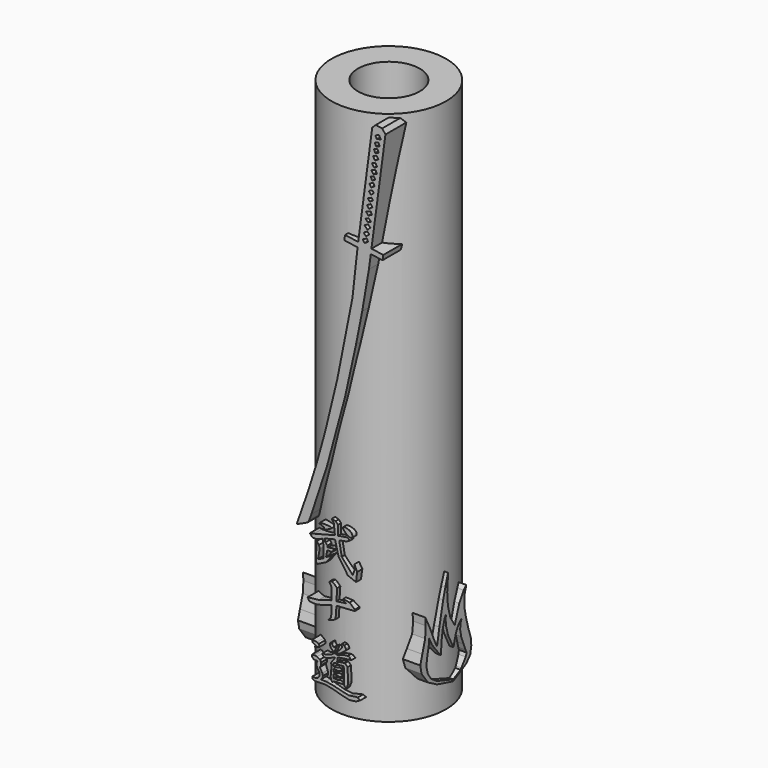
from build123d import *

# Parameters (mm, degrees)
F0_R      = 4.7625
F1_DEPTH  = 44.45
F2_R      = 2.5655508321
F3_DEPTH  = 1270
F5_DEPTH  = 5.08
F7_DEPTH  = 5.08
F9_DEPTH  = 5.08
F10_DEPTH = 10.16


with BuildPart() as f1:
    # F0 (on Top) → F1 (new body)
    with BuildSketch(Plane.XY):
        Circle(F0_R)
    extrude(amount=F1_DEPTH)

    # F2 (on face) → F3 (cut)
    with BuildSketch(Plane.XY.offset(44.45)):
        Circle(F2_R)
    extrude(amount=-F3_DEPTH, mode=Mode.SUBTRACT)

    # F4 (on Front) → F5 (join)
    with BuildSketch(Plane.XZ):
        with BuildLine():
            add(Edge.make_bspline(
                [(-1.7175952617, 13.5644670009), (-1.6912277764, 13.6438488183), (0.1729441015, 13.6943307224), (-1.8779925812, 13.0316259927), (-1.017103005, 13.3756600593), (-1.7355572103, 13.5103908495), (-1.7175952617, 13.5644670009)],
                knots=[0, 0, 0, 0, 0.323818666, 0.6224903435, 0.7794095959, 1, 1, 1, 1], degree=3))
        make_face()
        with BuildLine():
            add(Edge.make_bspline(
                [(0.2484885636, 13.8778124809), (0.2133609736, 13.7226341381), (1.0587064791, 13.0125970344), (1.0977250912, 13.8838190379), (0.2800141973, 14.0170789547), (0.2484885636, 13.8778124809)],
                knots=[0, 0, 0, 0, 0.3876451352, 0.6521037019, 1, 1, 1, 1], degree=3))
        make_face()
        Polygon((-0.3610208399, 14.1428166722), (-0.6790249238, 14.2134842703), (-0.5111896739, 13.9661471397), (-0.4140218071, 13.1004669678), (-2.1453821509, 12.6499600361), (-2.4987207861, 12.5704590151), (-2.2778845689, 12.3231218845), (-1.9245442144, 12.3231218845), (-1.4387048806, 12.5174580479), (-1.3592034298, 11.9697828196), (-1.3592034298, 11.0864358019), (-1.8185439994, 10.9097664843), (-1.6772075137, 11.7047788432), (-1.7390425486, 11.9609496116), (-1.9245442144, 12.1729526207), (-1.9245442144, 11.9167822822), (-2.002059402, 11.0334352645), (-2.002059402, 10.7071562733), (-1.9068777985, 10.5122605198), (-1.147199561, 10.8832660007), (-0.5111896739, 11.6694447218), (-0.7850268582, 11.439774437), (-1.147199561, 11.2719387572), (-1.0500316942, 11.8019471398), (-0.6348580242, 11.8019471398), (-0.4670227743, 12.0846179619), (-0.714359475, 12.0846179619), (-1.0323652783, 11.9874496653), (-1.0323652783, 12.1464521371), (-1.208911858, 12.3210264531), (-1.274282297, 12.5844900428), (-0.4051877394, 12.8001292999), (-0.1136841392, 11.6252773924), (0.654828166, 10.5122605198), (1.3350049527, 10.2384224757), (1.4321745388, 11.0157679889), (1.2113366023, 11.51044225), (1.2113366023, 11.0687689561), (1.0611677683, 10.6624293537), (0.1495495181, 11.7122737256), (-0.060683172, 12.8442966293), (0.5576602992, 12.9591317717), (0.8314974836, 13.1093006056), (0.6106612664, 13.2771362854), (-0.1578510387, 13.1446342972), (-0.1578510387, 13.9396466561), align=None)
        Polygon((-0.6790249238, 9.617271291), (-0.8879889655, 9.5504183062), (-0.6790249238, 9.1938730662), (-0.6790249238, 8.2579407363), (-1.7644976618, 7.9311077429), (-2.6781445171, 7.8345433712), (-2.5566674813, 7.5881615371), (-2.2696024156, 7.552277888), (-1.8536326823, 7.552277888), (-0.6876604437, 7.9162516196), (-0.6876604437, 7.4316009856), (-0.7468570836, 6.958034675), (-0.9548410906, 6.7426221765), (-0.5462989891, 6.8614703033), (-0.3605978775, 6.9728907983), (-0.2863181207, 7.9905313764), (1.2364289307, 8.0870957481), (1.2364289307, 8.1985162431), (0.8116589491, 8.5812309087), (0.2485005991, 8.6516267145), (0.4126451642, 8.4569504173), (0.5010538357, 8.4213572331), (-0.2937457525, 8.3099367381), (-0.2268936274, 9.2978659293), (-0.5109356175, 9.5495988156), align=None)
        Polygon((-1.9037828793, 4.8017558828), (-2.310394213, 4.8525830303), (-2.2662273134, 4.6494132291), (-1.9813928811, 4.4898964133), (-2.0657817717, 4.4703683066), (-2.0542234446, 4.3711590109), (-1.6968347765, 4.5161326729), (-1.745051709, 4.7244976461), align=None)
        Polygon((-0.6508204321, 5.0531219297), (-0.6790249238, 5.1750050076), (-0.8263722893, 5.0866703489), (-0.8263722893, 4.9144180651), (-0.7203703549, 4.7068312301), (-0.46320887, 4.5359008238), (-0.2610297853, 5.0380864155), (-0.5127835199, 4.8790835139), align=None)
        Polygon((0.3585214832, 5.3023052391), (0.1474951226, 5.3286839135), (0.153230905, 5.3361158437), (0.1220004642, 5.2986381111), (0.1435421375, 5.2048710243), (0.1782149137, 5.0550358586), (-0.2309100505, 4.6178019502), (-0.7149921992, 4.2836298719), (-1.1834574081, 4.1368430175), (-1.4426748811, 4.1368430175), (-1.4270579413, 4.015042751), (-1.3208737548, 3.8994871971), (-1.1397323839, 3.8807487606), (-0.3776951856, 4.1743207501), (-0.7497181402, 3.6654148749), (-0.6844626837, 3.4783468111), (-0.7290273285, 3.1218347783), (-0.7724930468, 2.6200500235), (-0.6571959392, 2.2895273688), (-0.4937605366, 2.3852826711), (-0.2371375696, 2.4151803955), (0.105872748, 2.4151803955), (0.2781733005, 2.4550517999), (0.3000349529, 2.5050215368), (0.2297664611, 2.6299467388), (0.0640407612, 2.6604857657), (-0.2433840017, 2.5893457903), (-0.4292089071, 2.6112074427), (-0.4182772212, 2.6408767053), (-0.5525712115, 2.5862234339), (-0.5361405069, 2.86101199), (-0.5028834495, 2.9436180375), (-0.0850568082, 2.908335067), (-0.2262647095, 2.7658034918), (-0.2057627026, 2.7374909384), (-0.0442031139, 2.8544812976), (0.1956933806, 2.9665127073), (0.2380623693, 3.0717515637), (0.1507825374, 3.1415610089), (-0.0124585037, 3.1415610089), (-0.330182413, 3.0680377478), (-0.5251680643, 3.0661808398), (-0.5251680643, 3.3001641372), (-0.2885290343, 3.2984922805), (-0.2373318572, 3.2778803821), (-0.3246116891, 3.2035989059), (-0.2930425346, 3.1813160104), (-0.1682136388, 3.2679178665), (0.0839304124, 3.3558739549), (0.1860655079, 3.4580099101), (0.1043581192, 3.5378612505), (-0.0219184991, 3.5471466499), (-0.2371973411, 3.4979073287), (-0.4959941684, 3.4615359317), (-0.5103110813, 3.50257828), (-0.5585941268, 3.682707808), (-0.4341744165, 3.7644160564), (-0.2406037978, 3.7644160564), (0.0597830663, 3.7251129239), (0.2832976016, 3.7768355581), (0.3581699268, 3.5621987802), (0.3581699268, 3.3232138669), (0.3581699268, 2.3699005347), (0.5221605707, 2.1740350847), (0.6525470482, 2.497897518), (0.6733147163, 2.664036474), (0.6345586402, 3.7956318826), (0.4283678736, 4.0207828004), (0.0551724101, 3.9683337788), (-0.2698036754, 3.8736263151), (-0.2233792572, 3.9404784401), (-0.1991689601, 4.2512139329), (0.9563797015, 4.4136151481), (0.79555682, 4.5722832795), (0.6578124411, 4.6277389376), (0.294281977, 4.5853860112), (-0.1975841413, 4.4138070287), (-0.3709398232, 4.4354768005), (0.0319404284, 4.613493236), (0.5152512993, 4.9888107147), (0.4879144926, 5.1069441731), align=None)
        Polygon((-2.1293422488, 3.7744502368), (-2.339136741, 3.7501582701), (-2.3384163295, 3.6862668816), (-2.2876230195, 3.5670147054), (-2.1529146636, 3.4411197848), (-1.9761077973, 3.4411197848), (-1.8710601073, 3.4253627173), (-1.9550972277, 3.2205182602), (-1.9078268848, 2.9368884655), (-1.6819718581, 2.6164910336), (-1.6819718581, 2.3906377263), (-1.8395442528, 2.1857932692), (-2.075902845, 2.1437738493), (-2.2859999444, 2.170035342), (-2.2859999444, 2.0072120242), (-2.1441854769, 1.9074152572), (-1.9918640052, 1.9074152572), (-1.2092546738, 1.9284258268), (-0.594723022, 1.7971149247), (0.2614198643, 1.566008975), (0.7814091109, 1.4452033577), (1.3329124925, 1.5134842703), (1.6795714171, 1.6973181577), (1.47472696, 1.8496396294), (1.2593789375, 1.8496396294), (0.770903826, 1.7656007896), (0.2351583716, 1.8706484797), (-0.4774816364, 2.0541316178), (-1.1466166982, 2.1711752771), (-1.5927078856, 2.1711752771), (-1.457996091, 2.2793848688), (-1.4138291915, 2.48255467), (-1.4646225015, 2.6857244711), (-1.6788357469, 3.0346477918), (-1.5551656772, 3.2267750084), (-1.5551656772, 3.4299448096), (-1.6567505777, 3.6088226441), (-1.899671964, 3.7435327193), align=None)
    extrude(amount=F5_DEPTH)

    # F6 (on Front) → F7 (join)
    with BuildSketch(Plane.XZ):
        Polygon((2.6168415925, 35.0308006093), (1.5193448954, 35.1769062772), (0.4218483823, 35.3230119206), (0.3667593102, 34.9092013164), (1.4642558233, 34.763095673), (2.5617525204, 34.6169900051), (3.5377303728, 34.4870616907), (3.6063875973, 34.899066017), align=None)
        Polygon((2.6810045967, 43.9029037258), (1.5193448954, 35.1769062772), (2.6168415925, 35.0308006093), (3.7785012938, 43.7567980579), (3.5157546337, 44.1213669109), (2.9760020918, 44.1932221665), align=None)
        Polygon((2.0414698846, 35.2557021376), (1.8980928054, 35.4853616009), (2.2235331543, 35.6533907921), (2.3511228277, 35.4490193817), align=None, mode=Mode.SUBTRACT)
        Polygon((2.1661027885, 35.7792727889), (1.9675527694, 36.0071215171), (2.2911042995, 36.1817124116), (2.4364809721, 36.0148834678), align=None, mode=Mode.SUBTRACT)
        Polygon((2.2907356003, 36.3028434526), (2.0406056524, 36.5558702338), (2.336380601, 36.7252209444), (2.5249956306, 36.534421505), align=None, mode=Mode.SUBTRACT)
        Polygon((2.3290026201, 36.8653787864), (2.1088681727, 37.0686353556), (2.3811115864, 37.1880320767), (2.5742583376, 36.9883682795), align=None, mode=Mode.SUBTRACT)
        Polygon((2.360083998, 37.3739379918), (2.1783281367, 37.5903952719), (2.5526401055, 37.7505786799), (2.6629077387, 37.5167292812), align=None, mode=Mode.SUBTRACT)
        Polygon((2.4181529799, 37.8789044375), (2.2477882967, 38.1121566605), (2.5721966617, 38.2795415813), (2.7034435068, 38.0872772866), align=None, mode=Mode.SUBTRACT)
        Polygon((2.4618231755, 38.4132548527), (2.3172484566, 38.6339180492), (2.6275999697, 38.7652196337), (2.7391532745, 38.5949567483), align=None, mode=Mode.SUBTRACT)
        Polygon((2.5708593652, 38.9572117466), (2.3914987832, 39.1916615603), (2.7009232473, 39.31526421), (2.8104058414, 39.1404714162), align=None, mode=Mode.SUBTRACT)
        Polygon((2.6067311057, 39.5017545468), (2.4465598688, 39.7428054582), (2.7550728951, 39.8893771105), (2.88831253, 39.6888571168), align=None, mode=Mode.SUBTRACT)
        Polygon((2.6863845161, 40.0313131515), (2.5388019928, 40.298153788), (2.8174080968, 40.3837247146), (2.9359713989, 40.1693530783), align=None, mode=Mode.SUBTRACT)
        Polygon((2.7792396492, 40.5224944402), (2.6034717902, 40.7839315818), (2.9613919209, 40.9165376523), (3.0682772326, 40.63050121), align=None, mode=Mode.SUBTRACT)
        Polygon((2.8271150928, 41.0196622097), (2.6717343105, 41.2966967037), (2.9558299181, 41.4060931169), (3.0899014948, 41.1670516417), align=None, mode=Mode.SUBTRACT)
        Polygon((2.9193574128, 41.5750120119), (2.7447869974, 41.845443948), (3.0499093411, 41.9757111335), (3.1940891892, 41.7523580791), align=None, mode=Mode.SUBTRACT)
        Polygon((2.9282414572, 42.1231475841), (2.8178398804, 42.3941926646), (3.1261016295, 42.469920489), (3.2190937774, 42.2416170088), align=None, mode=Mode.SUBTRACT)
        Polygon((2.9953063379, 42.6269164391), (2.8891320201, 42.8991886647), (3.1977082479, 42.9887662794), (3.2934729211, 42.7431884294), align=None, mode=Mode.SUBTRACT)
        Polygon((3.0724710742, 43.1869812149), (2.9269672307, 43.4142160556), (3.2375840498, 43.5499340097), (3.4060889385, 43.2838282491), align=None, mode=Mode.SUBTRACT)
        Polygon((2.5617525204, 34.6169900051), (1.4642558233, 34.763095673), (1.7916291779, 33.94859739), align=None)
        Polygon((1.7916291779, 33.94859739), (1.4642558233, 34.763095673), (1.0429780351, 30.9409189758), (0.6610062871, 29.0118768175), (0.1800120064, 26.5827488771), (-0.2134201446, 24.5958291383), (-0.7646505825, 22.3057250741), (-1.2403057769, 20.3519962178), (-1.920602854, 17.9020020999), (-2.59188342, 15.7510548037), (-3.5908066202, 12.8738610074), (-3.0079835036, 13.7686676435), (-2.4621390316, 15.2665298199), (-1.7528805255, 17.4888441754), (-1.2455996517, 19.3157448029), (-0.6167563345, 21.8418754217), (-0.2546118071, 23.3180007902), (0.0863174738, 24.7167438202), (0.4267732367, 26.4361210337), (0.7062953501, 27.847769785), (1.3062581288, 31.239993714), align=None)
        Polygon((2.4074530175, 33.457943972), (2.5617525204, 34.6169900051), (1.7916291779, 33.94859739), (1.3062581288, 31.239993714), (0.7062953501, 27.847769785), (0.4267732367, 26.4361210337), (0.0863174738, 24.7167438202), (-0.2546118071, 23.3180007902), (-0.6167563345, 21.8418754217), (-1.2455996517, 19.3157448029), (-1.7528805255, 17.4888441754), (-2.4621390316, 15.2665298199), (-3.0079835036, 13.7686676435), (-3.5908066202, 12.8738610074), (-2.6967794096, 13.2860501381), (-2.5530988242, 13.497882978), (-2.3701436825, 14.004734498), (-1.0643283322, 17.9727748522), (0.4212098534, 23.4643232476), (1.3336430247, 27.6002148638), (1.8505166075, 30.210541248), align=None)
    extrude(amount=F7_DEPTH)

    # F8 (on Right) → F9 (join)
    with BuildSketch(Plane.YZ):
        Polygon((-1.3458500112, 2.4598590334), (0.1372495562, 2.0565948629), (0.32428285, 2.0158456178), (0.5148672789, 2.1109841713), (1.685606759, 2.7574918486), (2.0935447513, 3.2423991179), (2.2089990414, 3.8581540833), (2.1474224213, 4.4816050026), (1.8857270291, 5.297480238), (1.6406502627, 6.2028555439), (1.4854864889, 6.9831068808), (1.4854864889, 7.8143755222), (1.685606759, 8.5070997646), (1.4162139149, 8.2223135145), (0.9620942066, 7.4449232921), (0.4848851384, 6.0594755563), (0.0307654301, 6.7906840627), (-0.2234649634, 7.7681783922), (-0.292505084, 8.7610984537), (-0.2064413378, 10.1619586967), (-0.4914912609, 9.2023700988), (-0.714702389, 8.3864956124), (-1.1072454772, 6.5546263695), (-1.3538495921, 5.2229178953), (-1.5844545453, 5.684872715), (-2.098223421, 6.9134635667), (-2.5665711294, 7.8516718669), (-2.5234807739, 7.2319557078), (-2.5850558959, 6.3083243834), (-2.8775395981, 5.2923296269), (-3.0878800714, 4.5544531805), (-2.9545096242, 3.8837910331), (-2.2848762398, 2.9832498176), align=None)
        Polygon((-0.5682770155, 6.9522316785), (-0.4317438717, 7.2062258732), (-0.4589576157, 6.868787433), (-0.4154171235, 6.3735152704), (-0.2187123381, 5.6172020313), (0.3519834901, 4.4849496039), (0.6132249452, 5.4373961858), (0.8472556527, 5.8891278562), (1.2064635899, 6.2537792913), (1.0779489879, 5.9275507188), (1.0486298674, 5.4918221756), (1.1574803489, 4.9421240231), (1.4057823542, 4.2985792783), (1.5999520055, 3.7937384846), (1.7292437559, 3.5347373382), (1.6226880811, 3.2642505207), (1.1702990097, 2.6415948548), (1.0951112118, 2.5381084725), (0.32428285, 2.1533157813), (-1.3643715371, 2.7128607093), (-1.9792418498, 3.1335613707), (-2.3028584346, 3.6125135267), (-2.4648828317, 4.2354836101), (-2.354637208, 4.9328670056), (-2.2057728599, 5.683656973), (-2.2057728599, 6.2338038189), (-1.9058440014, 5.6329772547), (-1.5326518016, 5.1205646847), (-0.9436708757, 4.4280262119), (-0.8811360782, 5.4459055799), (-0.7559731965, 6.2855825924), align=None, mode=Mode.SUBTRACT)
    extrude(amount=F9_DEPTH)

    # F10 (add): a face of the model
    f10_faces = [f1.faces().sort_by_distance(p)[0] for p in [
        (5.08, -1.5560897365, 5.4104965658),
    ]]
    extrude(f10_faces, amount=-F10_DEPTH)


solid = f1.part
